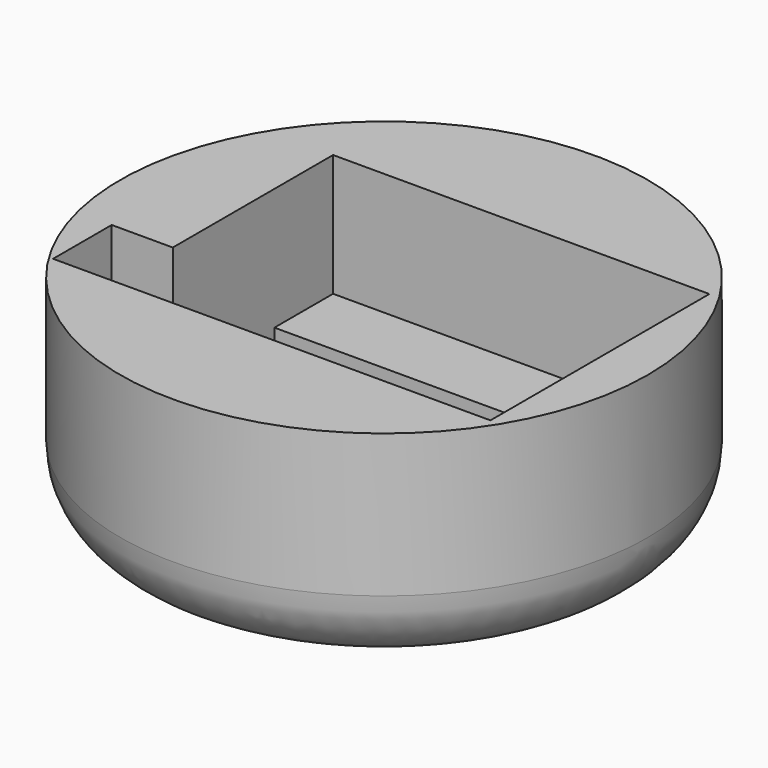
from build123d import *

# Parameters (mm, degrees)
F0_R     = 54
F1_DEPTH = 40
F2_W     = 12.5
F2_H     = 15
F3_DEPTH = 25
F5_DEPTH = 17
F8_R     = 15


with BuildPart() as f1:
    # F0 (on Top) → F1 (new body)
    with BuildSketch(Plane.XY):
        Circle(F0_R)
    extrude(amount=F1_DEPTH)

    # F2 (on face) → F3 (cut)
    with BuildSketch(Plane.XY.offset(40)):
        Polygon((44.173586, -28), (44.173586, 28), (-32.826414, 28), (-32.826414, -13), (-32.826414, -28), align=None)
        with Locations((-39.076414, -20.5)):
            Rectangle(F2_W, F2_H)
    extrude(amount=-F3_DEPTH, mode=Mode.SUBTRACT)

    # F4 (on face) → F5 (cut)
    with BuildSketch(Plane.XY.offset(15)):
        Polygon((-32.826414, 13), (-32.826414, 0), (-32.826414, -13), (19.173586, -13), (19.173586, 13), align=None)
    extrude(amount=-F5_DEPTH, mode=Mode.SUBTRACT)

    # F6 (on Front) → F7 (revolve)
    with BuildSketch(Plane.XZ):
        with BuildLine():
            Line((0, 0), (0, -10))
            ThreePointArc((0, -10), (27.45906, -7.478926), (54, 0))
            Line((54, 0), (0, 0))
        make_face()
    revolve(axis=Axis((0, 0, -5), (0, 0, -1)))

    # F8
    f8_edges = [f1.edges().sort_by_distance(p)[0] for p in [
        (-54, 0, 0),
    ]]
    fillet(f8_edges, radius=F8_R)


solid = f1.part
